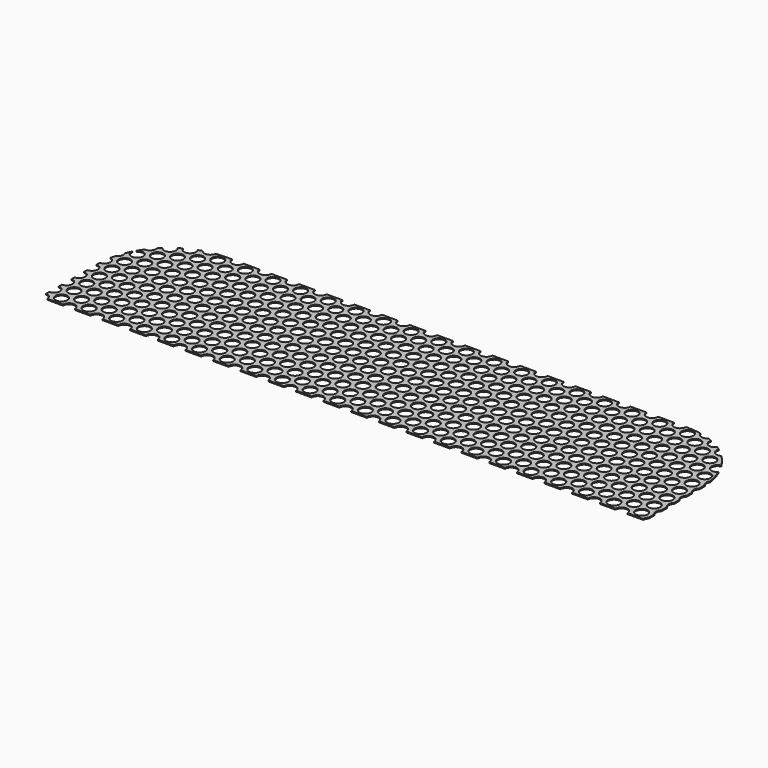
from build123d import *

# Parameters (mm, degrees)
F0_R     = 9.525
F1_DEPTH = 1.651


with BuildPart() as f1:
    # F0 (on Top) → F1 (new body)
    with BuildSketch(Plane.XY):
        with BuildLine():
            ThreePointArc((0, 9.525), (6.735192, 6.735192), (9.525, 0))
            Line((9.525, 0), (34.925, 0))
            ThreePointArc((34.925, 0), (44.45, 9.525), (53.975, 0))
            Line((53.975, 0), (79.375, 0))
            ThreePointArc((79.375, 0), (88.9, 9.525), (98.425, 0))
            Line((98.425, 0), (123.825, 0))
            ThreePointArc((123.825, 0), (133.35, 9.525), (142.875, 0))
            Line((142.875, 0), (168.275, 0))
            ThreePointArc((168.275, 0), (177.8, 9.525), (187.325, 0))
            Line((187.325, 0), (212.725, 0))
            ThreePointArc((212.725, 0), (222.25, 9.525), (231.775, 0))
            Line((231.775, 0), (257.175, 0))
            ThreePointArc((257.175, 0), (266.7, 9.525), (276.225, 0))
            Line((276.225, 0), (301.625, 0))
            ThreePointArc((301.625, 0), (311.15, 9.525), (320.675, 0))
            Line((320.675, 0), (346.075, 0))
            ThreePointArc((346.075, 0), (355.6, 9.525), (365.125, 0))
            Line((365.125, 0), (390.525, 0))
            ThreePointArc((390.525, 0), (400.05, 9.525), (409.575, 0))
            Line((409.575, 0), (434.975, 0))
            ThreePointArc((434.975, 0), (444.5, 9.525), (454.025, 0))
            Line((454.025, 0), (479.425, 0))
            ThreePointArc((479.425, 0), (488.95, 9.525), (498.475, 0))
            Line((498.475, 0), (523.875, 0))
            ThreePointArc((523.875, 0), (533.4, 9.525), (542.925, 0))
            Line((542.925, 0), (568.325, 0))
            ThreePointArc((568.325, 0), (577.85, 9.525), (587.375, 0))
            Line((587.375, 0), (612.775, 0))
            ThreePointArc((612.775, 0), (622.3, 9.525), (631.825, 0))
            Line((631.825, 0), (657.225, 0))
            ThreePointArc((657.225, 0), (666.75, 9.525), (676.275, 0))
            Line((676.275, 0), (701.675, 0))
            ThreePointArc((701.675, 0), (711.2, 9.525), (720.725, 0))
            Line((720.725, 0), (746.125, 0))
            ThreePointArc((746.125, 0), (755.65, 9.525), (765.175, 0))
            Line((765.175, 0), (790.575, 0))
            ThreePointArc((790.575, 0), (800.1, 9.525), (809.625, 0))
            Line((809.625, 0), (835.025, 0))
            ThreePointArc((835.025, 0), (844.55, 9.525), (854.075, 0))
            Line((854.075, 0), (879.475, 0))
            ThreePointArc((879.475, 0), (889, 9.525), (898.525, 0))
            Line((898.525, 0), (923.925, 0))
            ThreePointArc((923.925, 0), (933.45, 9.525), (942.975, 0))
            Line((942.975, 0), (968.375, 0))
            ThreePointArc((968.375, 0), (969.204904, 3.888565), (971.55, 7.099516))
            Line((971.55, 7.099516), (971.55, 18.300484))
            ThreePointArc((971.55, 18.300484), (968.375, 25.4), (971.55, 32.499516))
            Line((971.55, 32.499516), (971.55, 43.700484))
            ThreePointArc((971.55, 43.700484), (968.375, 50.8), (971.55, 57.899516))
            Line((971.55, 57.899516), (971.55, 69.100484))
            ThreePointArc((971.55, 69.100484), (968.375, 76.2), (971.55, 83.299516))
            Line((971.55, 83.299516), (971.55, 94.500484))
            ThreePointArc((971.55, 94.500484), (968.375, 101.6), (971.55, 108.699516))
            Line((971.55, 108.699516), (971.55, 114.3))
            ThreePointArc((971.55, 114.3), (971.514043, 117.166791), (971.406194, 120.031778))
            ThreePointArc((971.406194, 120.031778), (968.427336, 126.002877), (970.097607, 132.463359))
            ThreePointArc((970.097607, 132.463359), (967.13902, 145.746674), (962.622667, 158.584208))
            ThreePointArc((962.622667, 158.584208), (947.210888, 160.731426), (954.38859, 174.537731))
            ThreePointArc((954.38859, 174.537731), (946.893861, 185.211693), (938.231935, 194.962359))
            ThreePointArc((938.231935, 194.962359), (927.251212, 195.968081), (924.577918, 206.665802))
            ThreePointArc((924.577918, 206.665802), (921.837741, 208.602247), (919.041905, 210.457425))
            ThreePointArc((919.041905, 210.457425), (906.756296, 207.488323), (902.339283, 219.330693))
            ThreePointArc((902.339283, 219.330693), (899.079587, 220.670934), (895.780119, 221.910036))
            ThreePointArc((895.780119, 221.910036), (886.450692, 219.422492), (879.740834, 226.365393))
            ThreePointArc((879.740834, 226.365393), (868.550786, 228.039976), (857.25, 228.6))
            Line((857.25, 228.6), (854.075, 228.6))
            ThreePointArc((854.075, 228.6), (844.55, 219.075), (835.025, 228.6))
            Line((835.025, 228.6), (809.625, 228.6))
            ThreePointArc((809.625, 228.6), (800.1, 219.075), (790.575, 228.6))
            Line((790.575, 228.6), (765.175, 228.6))
            ThreePointArc((765.175, 228.6), (755.65, 219.075), (746.125, 228.6))
            Line((746.125, 228.6), (720.725, 228.6))
            ThreePointArc((720.725, 228.6), (711.2, 219.075), (701.675, 228.6))
            Line((701.675, 228.6), (676.275, 228.6))
            ThreePointArc((676.275, 228.6), (666.75, 219.075), (657.225, 228.6))
            Line((657.225, 228.6), (631.825, 228.6))
            ThreePointArc((631.825, 228.6), (622.3, 219.075), (612.775, 228.6))
            Line((612.775, 228.6), (587.375, 228.6))
            ThreePointArc((587.375, 228.6), (577.85, 219.075), (568.325, 228.6))
            Line((568.325, 228.6), (542.925, 228.6))
            ThreePointArc((542.925, 228.6), (533.4, 219.075), (523.875, 228.6))
            Line((523.875, 228.6), (498.475, 228.6))
            ThreePointArc((498.475, 228.6), (488.95, 219.075), (479.425, 228.6))
            Line((479.425, 228.6), (454.025, 228.6))
            ThreePointArc((454.025, 228.6), (444.5, 219.075), (434.975, 228.6))
            Line((434.975, 228.6), (409.575, 228.6))
            ThreePointArc((409.575, 228.6), (400.05, 219.075), (390.525, 228.6))
            Line((390.525, 228.6), (365.125, 228.6))
            ThreePointArc((365.125, 228.6), (355.6, 219.075), (346.075, 228.6))
            Line((346.075, 228.6), (320.675, 228.6))
            ThreePointArc((320.675, 228.6), (311.15, 219.075), (301.625, 228.6))
            Line((301.625, 228.6), (276.225, 228.6))
            ThreePointArc((276.225, 228.6), (266.7, 219.075), (257.175, 228.6))
            Line((257.175, 228.6), (231.775, 228.6))
            ThreePointArc((231.775, 228.6), (222.25, 219.075), (212.725, 228.6))
            Line((212.725, 228.6), (187.325, 228.6))
            ThreePointArc((187.325, 228.6), (177.8, 219.075), (168.275, 228.6))
            Line((168.275, 228.6), (142.875, 228.6))
            ThreePointArc((142.875, 228.6), (133.35, 219.075), (123.825, 228.6))
            Line((123.825, 228.6), (114.3, 228.6))
            ThreePointArc((114.3, 228.6), (106.310092, 228.320399), (98.359273, 227.482964))
            ThreePointArc((98.359273, 227.482964), (90.966263, 219.301818), (80.804109, 223.581816))
            ThreePointArc((80.804109, 223.581816), (77.603874, 222.549177), (74.435401, 221.422844))
            ThreePointArc((74.435401, 221.422844), (70.717733, 207.275504), (57.46564, 213.468269))
            ThreePointArc((57.46564, 213.468269), (54.396955, 211.64534), (51.386684, 209.727484))
            ThreePointArc((51.386684, 209.727484), (50.33475, 195.710318), (36.466668, 198.004614))
            ThreePointArc((36.466668, 198.004614), (33.901788, 195.544184), (31.414647, 193.005198))
            ThreePointArc((31.414647, 193.005198), (29.563006, 184.427168), (21.482601, 181.003976))
            ThreePointArc((21.482601, 181.003976), (18.434116, 176.543251), (15.599834, 171.94345))
            ThreePointArc((15.599834, 171.94345), (30.564877, 160.498688), (12.902809, 167.055092))
            ThreePointArc((12.902809, 167.055092), (10.48265, 162.116814), (8.302823, 157.067843))
            ThreePointArc((8.302823, 157.067843), (9.036208, 149.387931), (3.841552, 143.684032))
            ThreePointArc((3.841552, 143.684032), (2.926213, 139.997655), (2.133864, 136.282901))
            ThreePointArc((2.133864, 136.282901), (9.466743, 125.94814), (0.044109, 117.475102))
            ThreePointArc((0.044109, 117.475102), (0.011028, 115.887704), (0, 114.3))
            Line((0, 114.3), (0, 111.125))
            ThreePointArc((0, 111.125), (9.525, 101.6), (0, 92.075))
            Line((0, 92.075), (0, 85.725))
            ThreePointArc((0, 85.725), (9.525, 76.2), (0, 66.675))
            Line((0, 66.675), (0, 60.325))
            ThreePointArc((0, 60.325), (9.525, 50.8), (0, 41.275))
            Line((0, 41.275), (0, 34.925))
            ThreePointArc((0, 34.925), (9.525, 25.4), (0, 15.875))
            Line((0, 15.875), (0, 9.525))
        make_face()
        with Locations((22.225, 12.7)):
            Circle(F0_R, mode=Mode.SUBTRACT)
        with Locations((66.675, 12.7)):
            Circle(F0_R, mode=Mode.SUBTRACT)
        with Locations((111.125, 12.7)):
            Circle(F0_R, mode=Mode.SUBTRACT)
        with Locations((44.45, 25.4)):
            Circle(F0_R, mode=Mode.SUBTRACT)
        with Locations((88.9, 25.4)):
            Circle(F0_R, mode=Mode.SUBTRACT)
        with Locations((155.575, 12.7)):
            Circle(F0_R, mode=Mode.SUBTRACT)
        with Locations((200.025, 12.7)):
            Circle(F0_R, mode=Mode.SUBTRACT)
        with Locations((133.35, 25.4)):
            Circle(F0_R, mode=Mode.SUBTRACT)
        with Locations((177.8, 25.4)):
            Circle(F0_R, mode=Mode.SUBTRACT)
        with Locations((222.25, 25.4)):
            Circle(F0_R, mode=Mode.SUBTRACT)
        with Locations((22.225, 38.1)):
            Circle(F0_R, mode=Mode.SUBTRACT)
        with Locations((66.675, 38.1)):
            Circle(F0_R, mode=Mode.SUBTRACT)
        with Locations((111.125, 38.1)):
            Circle(F0_R, mode=Mode.SUBTRACT)
        with Locations((44.45, 50.8)):
            Circle(F0_R, mode=Mode.SUBTRACT)
        with Locations((88.9, 50.8)):
            Circle(F0_R, mode=Mode.SUBTRACT)
        with Locations((155.575, 38.1)):
            Circle(F0_R, mode=Mode.SUBTRACT)
        with Locations((200.025, 38.1)):
            Circle(F0_R, mode=Mode.SUBTRACT)
        with Locations((133.35, 50.8)):
            Circle(F0_R, mode=Mode.SUBTRACT)
        with Locations((177.8, 50.8)):
            Circle(F0_R, mode=Mode.SUBTRACT)
        with Locations((222.25, 50.8)):
            Circle(F0_R, mode=Mode.SUBTRACT)
        with Locations((244.475, 12.7)):
            Circle(F0_R, mode=Mode.SUBTRACT)
        with Locations((288.925, 12.7)):
            Circle(F0_R, mode=Mode.SUBTRACT)
        with Locations((333.375, 12.7)):
            Circle(F0_R, mode=Mode.SUBTRACT)
        with Locations((266.7, 25.4)):
            Circle(F0_R, mode=Mode.SUBTRACT)
        with Locations((311.15, 25.4)):
            Circle(F0_R, mode=Mode.SUBTRACT)
        with Locations((355.6, 25.4)):
            Circle(F0_R, mode=Mode.SUBTRACT)
        with Locations((377.825, 12.7)):
            Circle(F0_R, mode=Mode.SUBTRACT)
        with Locations((422.275, 12.7)):
            Circle(F0_R, mode=Mode.SUBTRACT)
        with Locations((466.725, 12.7)):
            Circle(F0_R, mode=Mode.SUBTRACT)
        with Locations((400.05, 25.4)):
            Circle(F0_R, mode=Mode.SUBTRACT)
        with Locations((444.5, 25.4)):
            Circle(F0_R, mode=Mode.SUBTRACT)
        with Locations((244.475, 38.1)):
            Circle(F0_R, mode=Mode.SUBTRACT)
        with Locations((288.925, 38.1)):
            Circle(F0_R, mode=Mode.SUBTRACT)
        with Locations((333.375, 38.1)):
            Circle(F0_R, mode=Mode.SUBTRACT)
        with Locations((266.7, 50.8)):
            Circle(F0_R, mode=Mode.SUBTRACT)
        with Locations((311.15, 50.8)):
            Circle(F0_R, mode=Mode.SUBTRACT)
        with Locations((355.6, 50.8)):
            Circle(F0_R, mode=Mode.SUBTRACT)
        with Locations((377.825, 38.1)):
            Circle(F0_R, mode=Mode.SUBTRACT)
        with Locations((422.275, 38.1)):
            Circle(F0_R, mode=Mode.SUBTRACT)
        with Locations((466.725, 38.1)):
            Circle(F0_R, mode=Mode.SUBTRACT)
        with Locations((400.05, 50.8)):
            Circle(F0_R, mode=Mode.SUBTRACT)
        with Locations((444.5, 50.8)):
            Circle(F0_R, mode=Mode.SUBTRACT)
        with Locations((22.225, 63.5)):
            Circle(F0_R, mode=Mode.SUBTRACT)
        with Locations((66.675, 63.5)):
            Circle(F0_R, mode=Mode.SUBTRACT)
        with Locations((111.125, 63.5)):
            Circle(F0_R, mode=Mode.SUBTRACT)
        with Locations((44.45, 76.2)):
            Circle(F0_R, mode=Mode.SUBTRACT)
        with Locations((88.9, 76.2)):
            Circle(F0_R, mode=Mode.SUBTRACT)
        with Locations((155.575, 63.5)):
            Circle(F0_R, mode=Mode.SUBTRACT)
        with Locations((200.025, 63.5)):
            Circle(F0_R, mode=Mode.SUBTRACT)
        with Locations((133.35, 76.2)):
            Circle(F0_R, mode=Mode.SUBTRACT)
        with Locations((177.8, 76.2)):
            Circle(F0_R, mode=Mode.SUBTRACT)
        with Locations((222.25, 76.2)):
            Circle(F0_R, mode=Mode.SUBTRACT)
        with Locations((22.225, 88.9)):
            Circle(F0_R, mode=Mode.SUBTRACT)
        with Locations((66.675, 88.9)):
            Circle(F0_R, mode=Mode.SUBTRACT)
        with Locations((111.125, 88.9)):
            Circle(F0_R, mode=Mode.SUBTRACT)
        with Locations((44.45, 101.6)):
            Circle(F0_R, mode=Mode.SUBTRACT)
        with Locations((22.225, 114.3)):
            Circle(F0_R, mode=Mode.SUBTRACT)
        with Locations((88.9, 101.6)):
            Circle(F0_R, mode=Mode.SUBTRACT)
        with Locations((66.675, 114.3)):
            Circle(F0_R, mode=Mode.SUBTRACT)
        with Locations((111.125, 114.3)):
            Circle(F0_R, mode=Mode.SUBTRACT)
        with Locations((155.575, 88.9)):
            Circle(F0_R, mode=Mode.SUBTRACT)
        with Locations((200.025, 88.9)):
            Circle(F0_R, mode=Mode.SUBTRACT)
        with Locations((133.35, 101.6)):
            Circle(F0_R, mode=Mode.SUBTRACT)
        with Locations((177.8, 101.6)):
            Circle(F0_R, mode=Mode.SUBTRACT)
        with Locations((155.575, 114.3)):
            Circle(F0_R, mode=Mode.SUBTRACT)
        with Locations((222.25, 101.6)):
            Circle(F0_R, mode=Mode.SUBTRACT)
        with Locations((200.025, 114.3)):
            Circle(F0_R, mode=Mode.SUBTRACT)
        with Locations((244.475, 63.5)):
            Circle(F0_R, mode=Mode.SUBTRACT)
        with Locations((288.925, 63.5)):
            Circle(F0_R, mode=Mode.SUBTRACT)
        with Locations((333.375, 63.5)):
            Circle(F0_R, mode=Mode.SUBTRACT)
        with Locations((266.7, 76.2)):
            Circle(F0_R, mode=Mode.SUBTRACT)
        with Locations((311.15, 76.2)):
            Circle(F0_R, mode=Mode.SUBTRACT)
        with Locations((355.6, 76.2)):
            Circle(F0_R, mode=Mode.SUBTRACT)
        with Locations((377.825, 63.5)):
            Circle(F0_R, mode=Mode.SUBTRACT)
        with Locations((422.275, 63.5)):
            Circle(F0_R, mode=Mode.SUBTRACT)
        with Locations((466.725, 63.5)):
            Circle(F0_R, mode=Mode.SUBTRACT)
        with Locations((400.05, 76.2)):
            Circle(F0_R, mode=Mode.SUBTRACT)
        with Locations((444.5, 76.2)):
            Circle(F0_R, mode=Mode.SUBTRACT)
        with Locations((244.475, 88.9)):
            Circle(F0_R, mode=Mode.SUBTRACT)
        with Locations((288.925, 88.9)):
            Circle(F0_R, mode=Mode.SUBTRACT)
        with Locations((333.375, 88.9)):
            Circle(F0_R, mode=Mode.SUBTRACT)
        with Locations((266.7, 101.6)):
            Circle(F0_R, mode=Mode.SUBTRACT)
        with Locations((244.475, 114.3)):
            Circle(F0_R, mode=Mode.SUBTRACT)
        with Locations((288.925, 114.3)):
            Circle(F0_R, mode=Mode.SUBTRACT)
        with Locations((311.15, 101.6)):
            Circle(F0_R, mode=Mode.SUBTRACT)
        with Locations((355.6, 101.6)):
            Circle(F0_R, mode=Mode.SUBTRACT)
        with Locations((333.375, 114.3)):
            Circle(F0_R, mode=Mode.SUBTRACT)
        with Locations((377.825, 88.9)):
            Circle(F0_R, mode=Mode.SUBTRACT)
        with Locations((422.275, 88.9)):
            Circle(F0_R, mode=Mode.SUBTRACT)
        with Locations((466.725, 88.9)):
            Circle(F0_R, mode=Mode.SUBTRACT)
        with Locations((400.05, 101.6)):
            Circle(F0_R, mode=Mode.SUBTRACT)
        with Locations((377.825, 114.3)):
            Circle(F0_R, mode=Mode.SUBTRACT)
        with Locations((422.275, 114.3)):
            Circle(F0_R, mode=Mode.SUBTRACT)
        with Locations((444.5, 101.6)):
            Circle(F0_R, mode=Mode.SUBTRACT)
        with Locations((466.725, 114.3)):
            Circle(F0_R, mode=Mode.SUBTRACT)
        with Locations((511.175, 12.7)):
            Circle(F0_R, mode=Mode.SUBTRACT)
        with Locations((555.625, 12.7)):
            Circle(F0_R, mode=Mode.SUBTRACT)
        with Locations((600.075, 12.7)):
            Circle(F0_R, mode=Mode.SUBTRACT)
        with Locations((488.95, 25.4)):
            Circle(F0_R, mode=Mode.SUBTRACT)
        with Locations((533.4, 25.4)):
            Circle(F0_R, mode=Mode.SUBTRACT)
        with Locations((577.85, 25.4)):
            Circle(F0_R, mode=Mode.SUBTRACT)
        with Locations((644.525, 12.7)):
            Circle(F0_R, mode=Mode.SUBTRACT)
        with Locations((688.975, 12.7)):
            Circle(F0_R, mode=Mode.SUBTRACT)
        with Locations((622.3, 25.4)):
            Circle(F0_R, mode=Mode.SUBTRACT)
        with Locations((666.75, 25.4)):
            Circle(F0_R, mode=Mode.SUBTRACT)
        with Locations((711.2, 25.4)):
            Circle(F0_R, mode=Mode.SUBTRACT)
        with Locations((511.175, 38.1)):
            Circle(F0_R, mode=Mode.SUBTRACT)
        with Locations((555.625, 38.1)):
            Circle(F0_R, mode=Mode.SUBTRACT)
        with Locations((600.075, 38.1)):
            Circle(F0_R, mode=Mode.SUBTRACT)
        with Locations((488.95, 50.8)):
            Circle(F0_R, mode=Mode.SUBTRACT)
        with Locations((533.4, 50.8)):
            Circle(F0_R, mode=Mode.SUBTRACT)
        with Locations((577.85, 50.8)):
            Circle(F0_R, mode=Mode.SUBTRACT)
        with Locations((644.525, 38.1)):
            Circle(F0_R, mode=Mode.SUBTRACT)
        with Locations((688.975, 38.1)):
            Circle(F0_R, mode=Mode.SUBTRACT)
        with Locations((622.3, 50.8)):
            Circle(F0_R, mode=Mode.SUBTRACT)
        with Locations((666.75, 50.8)):
            Circle(F0_R, mode=Mode.SUBTRACT)
        with Locations((711.2, 50.8)):
            Circle(F0_R, mode=Mode.SUBTRACT)
        with Locations((733.425, 12.7)):
            Circle(F0_R, mode=Mode.SUBTRACT)
        with Locations((777.875, 12.7)):
            Circle(F0_R, mode=Mode.SUBTRACT)
        with Locations((822.325, 12.7)):
            Circle(F0_R, mode=Mode.SUBTRACT)
        with Locations((755.65, 25.4)):
            Circle(F0_R, mode=Mode.SUBTRACT)
        with Locations((800.1, 25.4)):
            Circle(F0_R, mode=Mode.SUBTRACT)
        with Locations((844.55, 25.4)):
            Circle(F0_R, mode=Mode.SUBTRACT)
        with Locations((866.775, 12.7)):
            Circle(F0_R, mode=Mode.SUBTRACT)
        with Locations((911.225, 12.7)):
            Circle(F0_R, mode=Mode.SUBTRACT)
        with Locations((955.675, 12.7)):
            Circle(F0_R, mode=Mode.SUBTRACT)
        with Locations((889, 25.4)):
            Circle(F0_R, mode=Mode.SUBTRACT)
        with Locations((933.45, 25.4)):
            Circle(F0_R, mode=Mode.SUBTRACT)
        with Locations((733.425, 38.1)):
            Circle(F0_R, mode=Mode.SUBTRACT)
        with Locations((777.875, 38.1)):
            Circle(F0_R, mode=Mode.SUBTRACT)
        with Locations((822.325, 38.1)):
            Circle(F0_R, mode=Mode.SUBTRACT)
        with Locations((755.65, 50.8)):
            Circle(F0_R, mode=Mode.SUBTRACT)
        with Locations((800.1, 50.8)):
            Circle(F0_R, mode=Mode.SUBTRACT)
        with Locations((844.55, 50.8)):
            Circle(F0_R, mode=Mode.SUBTRACT)
        with Locations((866.775, 38.1)):
            Circle(F0_R, mode=Mode.SUBTRACT)
        with Locations((911.225, 38.1)):
            Circle(F0_R, mode=Mode.SUBTRACT)
        with Locations((955.675, 38.1)):
            Circle(F0_R, mode=Mode.SUBTRACT)
        with Locations((889, 50.8)):
            Circle(F0_R, mode=Mode.SUBTRACT)
        with Locations((933.45, 50.8)):
            Circle(F0_R, mode=Mode.SUBTRACT)
        with Locations((511.175, 63.5)):
            Circle(F0_R, mode=Mode.SUBTRACT)
        with Locations((555.625, 63.5)):
            Circle(F0_R, mode=Mode.SUBTRACT)
        with Locations((600.075, 63.5)):
            Circle(F0_R, mode=Mode.SUBTRACT)
        with Locations((488.95, 76.2)):
            Circle(F0_R, mode=Mode.SUBTRACT)
        with Locations((533.4, 76.2)):
            Circle(F0_R, mode=Mode.SUBTRACT)
        with Locations((577.85, 76.2)):
            Circle(F0_R, mode=Mode.SUBTRACT)
        with Locations((644.525, 63.5)):
            Circle(F0_R, mode=Mode.SUBTRACT)
        with Locations((688.975, 63.5)):
            Circle(F0_R, mode=Mode.SUBTRACT)
        with Locations((622.3, 76.2)):
            Circle(F0_R, mode=Mode.SUBTRACT)
        with Locations((666.75, 76.2)):
            Circle(F0_R, mode=Mode.SUBTRACT)
        with Locations((711.2, 76.2)):
            Circle(F0_R, mode=Mode.SUBTRACT)
        with Locations((511.175, 88.9)):
            Circle(F0_R, mode=Mode.SUBTRACT)
        with Locations((555.625, 88.9)):
            Circle(F0_R, mode=Mode.SUBTRACT)
        with Locations((600.075, 88.9)):
            Circle(F0_R, mode=Mode.SUBTRACT)
        with Locations((488.95, 101.6)):
            Circle(F0_R, mode=Mode.SUBTRACT)
        with Locations((533.4, 101.6)):
            Circle(F0_R, mode=Mode.SUBTRACT)
        with Locations((511.175, 114.3)):
            Circle(F0_R, mode=Mode.SUBTRACT)
        with Locations((577.85, 101.6)):
            Circle(F0_R, mode=Mode.SUBTRACT)
        with Locations((555.625, 114.3)):
            Circle(F0_R, mode=Mode.SUBTRACT)
        with Locations((600.075, 114.3)):
            Circle(F0_R, mode=Mode.SUBTRACT)
        with Locations((644.525, 88.9)):
            Circle(F0_R, mode=Mode.SUBTRACT)
        with Locations((688.975, 88.9)):
            Circle(F0_R, mode=Mode.SUBTRACT)
        with Locations((622.3, 101.6)):
            Circle(F0_R, mode=Mode.SUBTRACT)
        with Locations((666.75, 101.6)):
            Circle(F0_R, mode=Mode.SUBTRACT)
        with Locations((644.525, 114.3)):
            Circle(F0_R, mode=Mode.SUBTRACT)
        with Locations((711.2, 101.6)):
            Circle(F0_R, mode=Mode.SUBTRACT)
        with Locations((688.975, 114.3)):
            Circle(F0_R, mode=Mode.SUBTRACT)
        with Locations((733.425, 63.5)):
            Circle(F0_R, mode=Mode.SUBTRACT)
        with Locations((777.875, 63.5)):
            Circle(F0_R, mode=Mode.SUBTRACT)
        with Locations((822.325, 63.5)):
            Circle(F0_R, mode=Mode.SUBTRACT)
        with Locations((755.65, 76.2)):
            Circle(F0_R, mode=Mode.SUBTRACT)
        with Locations((800.1, 76.2)):
            Circle(F0_R, mode=Mode.SUBTRACT)
        with Locations((844.55, 76.2)):
            Circle(F0_R, mode=Mode.SUBTRACT)
        with Locations((866.775, 63.5)):
            Circle(F0_R, mode=Mode.SUBTRACT)
        with Locations((911.225, 63.5)):
            Circle(F0_R, mode=Mode.SUBTRACT)
        with Locations((955.675, 63.5)):
            Circle(F0_R, mode=Mode.SUBTRACT)
        with Locations((889, 76.2)):
            Circle(F0_R, mode=Mode.SUBTRACT)
        with Locations((933.45, 76.2)):
            Circle(F0_R, mode=Mode.SUBTRACT)
        with Locations((733.425, 88.9)):
            Circle(F0_R, mode=Mode.SUBTRACT)
        with Locations((777.875, 88.9)):
            Circle(F0_R, mode=Mode.SUBTRACT)
        with Locations((822.325, 88.9)):
            Circle(F0_R, mode=Mode.SUBTRACT)
        with Locations((755.65, 101.6)):
            Circle(F0_R, mode=Mode.SUBTRACT)
        with Locations((733.425, 114.3)):
            Circle(F0_R, mode=Mode.SUBTRACT)
        with Locations((777.875, 114.3)):
            Circle(F0_R, mode=Mode.SUBTRACT)
        with Locations((800.1, 101.6)):
            Circle(F0_R, mode=Mode.SUBTRACT)
        with Locations((844.55, 101.6)):
            Circle(F0_R, mode=Mode.SUBTRACT)
        with Locations((822.325, 114.3)):
            Circle(F0_R, mode=Mode.SUBTRACT)
        with Locations((866.775, 88.9)):
            Circle(F0_R, mode=Mode.SUBTRACT)
        with Locations((911.225, 88.9)):
            Circle(F0_R, mode=Mode.SUBTRACT)
        with Locations((955.675, 88.9)):
            Circle(F0_R, mode=Mode.SUBTRACT)
        with Locations((889, 101.6)):
            Circle(F0_R, mode=Mode.SUBTRACT)
        with Locations((866.775, 114.3)):
            Circle(F0_R, mode=Mode.SUBTRACT)
        with Locations((933.45, 101.6)):
            Circle(F0_R, mode=Mode.SUBTRACT)
        with Locations((911.225, 114.3)):
            Circle(F0_R, mode=Mode.SUBTRACT)
        with Locations((955.675, 114.3)):
            Circle(F0_R, mode=Mode.SUBTRACT)
        with Locations((44.45, 127)):
            Circle(F0_R, mode=Mode.SUBTRACT)
        with Locations((88.9, 127)):
            Circle(F0_R, mode=Mode.SUBTRACT)
        with Locations((22.225, 139.7)):
            Circle(F0_R, mode=Mode.SUBTRACT)
        with Locations((66.675, 139.7)):
            Circle(F0_R, mode=Mode.SUBTRACT)
        with Locations((111.125, 139.7)):
            Circle(F0_R, mode=Mode.SUBTRACT)
        with Locations((133.35, 127)):
            Circle(F0_R, mode=Mode.SUBTRACT)
        with Locations((177.8, 127)):
            Circle(F0_R, mode=Mode.SUBTRACT)
        with Locations((222.25, 127)):
            Circle(F0_R, mode=Mode.SUBTRACT)
        with Locations((155.575, 139.7)):
            Circle(F0_R, mode=Mode.SUBTRACT)
        with Locations((200.025, 139.7)):
            Circle(F0_R, mode=Mode.SUBTRACT)
        with Locations((44.45, 152.4)):
            Circle(F0_R, mode=Mode.SUBTRACT)
        with Locations((88.9, 152.4)):
            Circle(F0_R, mode=Mode.SUBTRACT)
        with Locations((66.675, 165.1)):
            Circle(F0_R, mode=Mode.SUBTRACT)
        with Locations((111.125, 165.1)):
            Circle(F0_R, mode=Mode.SUBTRACT)
        with Locations((133.35, 152.4)):
            Circle(F0_R, mode=Mode.SUBTRACT)
        with Locations((177.8, 152.4)):
            Circle(F0_R, mode=Mode.SUBTRACT)
        with Locations((222.25, 152.4)):
            Circle(F0_R, mode=Mode.SUBTRACT)
        with Locations((155.575, 165.1)):
            Circle(F0_R, mode=Mode.SUBTRACT)
        with Locations((200.025, 165.1)):
            Circle(F0_R, mode=Mode.SUBTRACT)
        with Locations((266.7, 127)):
            Circle(F0_R, mode=Mode.SUBTRACT)
        with Locations((311.15, 127)):
            Circle(F0_R, mode=Mode.SUBTRACT)
        with Locations((355.6, 127)):
            Circle(F0_R, mode=Mode.SUBTRACT)
        with Locations((244.475, 139.7)):
            Circle(F0_R, mode=Mode.SUBTRACT)
        with Locations((288.925, 139.7)):
            Circle(F0_R, mode=Mode.SUBTRACT)
        with Locations((333.375, 139.7)):
            Circle(F0_R, mode=Mode.SUBTRACT)
        with Locations((400.05, 127)):
            Circle(F0_R, mode=Mode.SUBTRACT)
        with Locations((444.5, 127)):
            Circle(F0_R, mode=Mode.SUBTRACT)
        with Locations((377.825, 139.7)):
            Circle(F0_R, mode=Mode.SUBTRACT)
        with Locations((422.275, 139.7)):
            Circle(F0_R, mode=Mode.SUBTRACT)
        with Locations((466.725, 139.7)):
            Circle(F0_R, mode=Mode.SUBTRACT)
        with Locations((266.7, 152.4)):
            Circle(F0_R, mode=Mode.SUBTRACT)
        with Locations((311.15, 152.4)):
            Circle(F0_R, mode=Mode.SUBTRACT)
        with Locations((355.6, 152.4)):
            Circle(F0_R, mode=Mode.SUBTRACT)
        with Locations((244.475, 165.1)):
            Circle(F0_R, mode=Mode.SUBTRACT)
        with Locations((288.925, 165.1)):
            Circle(F0_R, mode=Mode.SUBTRACT)
        with Locations((333.375, 165.1)):
            Circle(F0_R, mode=Mode.SUBTRACT)
        with Locations((400.05, 152.4)):
            Circle(F0_R, mode=Mode.SUBTRACT)
        with Locations((444.5, 152.4)):
            Circle(F0_R, mode=Mode.SUBTRACT)
        with Locations((377.825, 165.1)):
            Circle(F0_R, mode=Mode.SUBTRACT)
        with Locations((422.275, 165.1)):
            Circle(F0_R, mode=Mode.SUBTRACT)
        with Locations((466.725, 165.1)):
            Circle(F0_R, mode=Mode.SUBTRACT)
        with Locations((44.45, 177.8)):
            Circle(F0_R, mode=Mode.SUBTRACT)
        with Locations((88.9, 177.8)):
            Circle(F0_R, mode=Mode.SUBTRACT)
        with Locations((66.675, 190.5)):
            Circle(F0_R, mode=Mode.SUBTRACT)
        with Locations((111.125, 190.5)):
            Circle(F0_R, mode=Mode.SUBTRACT)
        with Locations((133.35, 177.8)):
            Circle(F0_R, mode=Mode.SUBTRACT)
        with Locations((177.8, 177.8)):
            Circle(F0_R, mode=Mode.SUBTRACT)
        with Locations((222.25, 177.8)):
            Circle(F0_R, mode=Mode.SUBTRACT)
        with Locations((155.575, 190.5)):
            Circle(F0_R, mode=Mode.SUBTRACT)
        with Locations((200.025, 190.5)):
            Circle(F0_R, mode=Mode.SUBTRACT)
        with Locations((88.9, 203.2)):
            Circle(F0_R, mode=Mode.SUBTRACT)
        with Locations((111.125, 215.9)):
            Circle(F0_R, mode=Mode.SUBTRACT)
        with Locations((133.35, 203.2)):
            Circle(F0_R, mode=Mode.SUBTRACT)
        with Locations((177.8, 203.2)):
            Circle(F0_R, mode=Mode.SUBTRACT)
        with Locations((222.25, 203.2)):
            Circle(F0_R, mode=Mode.SUBTRACT)
        with Locations((155.575, 215.9)):
            Circle(F0_R, mode=Mode.SUBTRACT)
        with Locations((200.025, 215.9)):
            Circle(F0_R, mode=Mode.SUBTRACT)
        with Locations((266.7, 177.8)):
            Circle(F0_R, mode=Mode.SUBTRACT)
        with Locations((311.15, 177.8)):
            Circle(F0_R, mode=Mode.SUBTRACT)
        with Locations((355.6, 177.8)):
            Circle(F0_R, mode=Mode.SUBTRACT)
        with Locations((244.475, 190.5)):
            Circle(F0_R, mode=Mode.SUBTRACT)
        with Locations((288.925, 190.5)):
            Circle(F0_R, mode=Mode.SUBTRACT)
        with Locations((333.375, 190.5)):
            Circle(F0_R, mode=Mode.SUBTRACT)
        with Locations((400.05, 177.8)):
            Circle(F0_R, mode=Mode.SUBTRACT)
        with Locations((444.5, 177.8)):
            Circle(F0_R, mode=Mode.SUBTRACT)
        with Locations((377.825, 190.5)):
            Circle(F0_R, mode=Mode.SUBTRACT)
        with Locations((422.275, 190.5)):
            Circle(F0_R, mode=Mode.SUBTRACT)
        with Locations((466.725, 190.5)):
            Circle(F0_R, mode=Mode.SUBTRACT)
        with Locations((266.7, 203.2)):
            Circle(F0_R, mode=Mode.SUBTRACT)
        with Locations((311.15, 203.2)):
            Circle(F0_R, mode=Mode.SUBTRACT)
        with Locations((355.6, 203.2)):
            Circle(F0_R, mode=Mode.SUBTRACT)
        with Locations((244.475, 215.9)):
            Circle(F0_R, mode=Mode.SUBTRACT)
        with Locations((288.925, 215.9)):
            Circle(F0_R, mode=Mode.SUBTRACT)
        with Locations((333.375, 215.9)):
            Circle(F0_R, mode=Mode.SUBTRACT)
        with Locations((400.05, 203.2)):
            Circle(F0_R, mode=Mode.SUBTRACT)
        with Locations((444.5, 203.2)):
            Circle(F0_R, mode=Mode.SUBTRACT)
        with Locations((377.825, 215.9)):
            Circle(F0_R, mode=Mode.SUBTRACT)
        with Locations((422.275, 215.9)):
            Circle(F0_R, mode=Mode.SUBTRACT)
        with Locations((466.725, 215.9)):
            Circle(F0_R, mode=Mode.SUBTRACT)
        with Locations((488.95, 127)):
            Circle(F0_R, mode=Mode.SUBTRACT)
        with Locations((533.4, 127)):
            Circle(F0_R, mode=Mode.SUBTRACT)
        with Locations((577.85, 127)):
            Circle(F0_R, mode=Mode.SUBTRACT)
        with Locations((511.175, 139.7)):
            Circle(F0_R, mode=Mode.SUBTRACT)
        with Locations((555.625, 139.7)):
            Circle(F0_R, mode=Mode.SUBTRACT)
        with Locations((600.075, 139.7)):
            Circle(F0_R, mode=Mode.SUBTRACT)
        with Locations((622.3, 127)):
            Circle(F0_R, mode=Mode.SUBTRACT)
        with Locations((666.75, 127)):
            Circle(F0_R, mode=Mode.SUBTRACT)
        with Locations((711.2, 127)):
            Circle(F0_R, mode=Mode.SUBTRACT)
        with Locations((644.525, 139.7)):
            Circle(F0_R, mode=Mode.SUBTRACT)
        with Locations((688.975, 139.7)):
            Circle(F0_R, mode=Mode.SUBTRACT)
        with Locations((488.95, 152.4)):
            Circle(F0_R, mode=Mode.SUBTRACT)
        with Locations((533.4, 152.4)):
            Circle(F0_R, mode=Mode.SUBTRACT)
        with Locations((577.85, 152.4)):
            Circle(F0_R, mode=Mode.SUBTRACT)
        with Locations((511.175, 165.1)):
            Circle(F0_R, mode=Mode.SUBTRACT)
        with Locations((555.625, 165.1)):
            Circle(F0_R, mode=Mode.SUBTRACT)
        with Locations((600.075, 165.1)):
            Circle(F0_R, mode=Mode.SUBTRACT)
        with Locations((622.3, 152.4)):
            Circle(F0_R, mode=Mode.SUBTRACT)
        with Locations((666.75, 152.4)):
            Circle(F0_R, mode=Mode.SUBTRACT)
        with Locations((711.2, 152.4)):
            Circle(F0_R, mode=Mode.SUBTRACT)
        with Locations((644.525, 165.1)):
            Circle(F0_R, mode=Mode.SUBTRACT)
        with Locations((688.975, 165.1)):
            Circle(F0_R, mode=Mode.SUBTRACT)
        with Locations((755.65, 127)):
            Circle(F0_R, mode=Mode.SUBTRACT)
        with Locations((800.1, 127)):
            Circle(F0_R, mode=Mode.SUBTRACT)
        with Locations((844.55, 127)):
            Circle(F0_R, mode=Mode.SUBTRACT)
        with Locations((733.425, 139.7)):
            Circle(F0_R, mode=Mode.SUBTRACT)
        with Locations((777.875, 139.7)):
            Circle(F0_R, mode=Mode.SUBTRACT)
        with Locations((822.325, 139.7)):
            Circle(F0_R, mode=Mode.SUBTRACT)
        with Locations((889, 127)):
            Circle(F0_R, mode=Mode.SUBTRACT)
        with Locations((933.45, 127)):
            Circle(F0_R, mode=Mode.SUBTRACT)
        with Locations((866.775, 139.7)):
            Circle(F0_R, mode=Mode.SUBTRACT)
        with Locations((911.225, 139.7)):
            Circle(F0_R, mode=Mode.SUBTRACT)
        with Locations((955.675, 139.7)):
            Circle(F0_R, mode=Mode.SUBTRACT)
        with Locations((755.65, 152.4)):
            Circle(F0_R, mode=Mode.SUBTRACT)
        with Locations((800.1, 152.4)):
            Circle(F0_R, mode=Mode.SUBTRACT)
        with Locations((844.55, 152.4)):
            Circle(F0_R, mode=Mode.SUBTRACT)
        with Locations((733.425, 165.1)):
            Circle(F0_R, mode=Mode.SUBTRACT)
        with Locations((777.875, 165.1)):
            Circle(F0_R, mode=Mode.SUBTRACT)
        with Locations((822.325, 165.1)):
            Circle(F0_R, mode=Mode.SUBTRACT)
        with Locations((889, 152.4)):
            Circle(F0_R, mode=Mode.SUBTRACT)
        with Locations((933.45, 152.4)):
            Circle(F0_R, mode=Mode.SUBTRACT)
        with Locations((866.775, 165.1)):
            Circle(F0_R, mode=Mode.SUBTRACT)
        with Locations((911.225, 165.1)):
            Circle(F0_R, mode=Mode.SUBTRACT)
        with Locations((488.95, 177.8)):
            Circle(F0_R, mode=Mode.SUBTRACT)
        with Locations((533.4, 177.8)):
            Circle(F0_R, mode=Mode.SUBTRACT)
        with Locations((577.85, 177.8)):
            Circle(F0_R, mode=Mode.SUBTRACT)
        with Locations((511.175, 190.5)):
            Circle(F0_R, mode=Mode.SUBTRACT)
        with Locations((555.625, 190.5)):
            Circle(F0_R, mode=Mode.SUBTRACT)
        with Locations((600.075, 190.5)):
            Circle(F0_R, mode=Mode.SUBTRACT)
        with Locations((622.3, 177.8)):
            Circle(F0_R, mode=Mode.SUBTRACT)
        with Locations((666.75, 177.8)):
            Circle(F0_R, mode=Mode.SUBTRACT)
        with Locations((711.2, 177.8)):
            Circle(F0_R, mode=Mode.SUBTRACT)
        with Locations((644.525, 190.5)):
            Circle(F0_R, mode=Mode.SUBTRACT)
        with Locations((688.975, 190.5)):
            Circle(F0_R, mode=Mode.SUBTRACT)
        with Locations((488.95, 203.2)):
            Circle(F0_R, mode=Mode.SUBTRACT)
        with Locations((533.4, 203.2)):
            Circle(F0_R, mode=Mode.SUBTRACT)
        with Locations((577.85, 203.2)):
            Circle(F0_R, mode=Mode.SUBTRACT)
        with Locations((511.175, 215.9)):
            Circle(F0_R, mode=Mode.SUBTRACT)
        with Locations((555.625, 215.9)):
            Circle(F0_R, mode=Mode.SUBTRACT)
        with Locations((600.075, 215.9)):
            Circle(F0_R, mode=Mode.SUBTRACT)
        with Locations((622.3, 203.2)):
            Circle(F0_R, mode=Mode.SUBTRACT)
        with Locations((666.75, 203.2)):
            Circle(F0_R, mode=Mode.SUBTRACT)
        with Locations((711.2, 203.2)):
            Circle(F0_R, mode=Mode.SUBTRACT)
        with Locations((644.525, 215.9)):
            Circle(F0_R, mode=Mode.SUBTRACT)
        with Locations((688.975, 215.9)):
            Circle(F0_R, mode=Mode.SUBTRACT)
        with Locations((755.65, 177.8)):
            Circle(F0_R, mode=Mode.SUBTRACT)
        with Locations((800.1, 177.8)):
            Circle(F0_R, mode=Mode.SUBTRACT)
        with Locations((844.55, 177.8)):
            Circle(F0_R, mode=Mode.SUBTRACT)
        with Locations((733.425, 190.5)):
            Circle(F0_R, mode=Mode.SUBTRACT)
        with Locations((777.875, 190.5)):
            Circle(F0_R, mode=Mode.SUBTRACT)
        with Locations((822.325, 190.5)):
            Circle(F0_R, mode=Mode.SUBTRACT)
        with Locations((889, 177.8)):
            Circle(F0_R, mode=Mode.SUBTRACT)
        with Locations((933.45, 177.8)):
            Circle(F0_R, mode=Mode.SUBTRACT)
        with Locations((866.775, 190.5)):
            Circle(F0_R, mode=Mode.SUBTRACT)
        with Locations((911.225, 190.5)):
            Circle(F0_R, mode=Mode.SUBTRACT)
        with Locations((755.65, 203.2)):
            Circle(F0_R, mode=Mode.SUBTRACT)
        with Locations((800.1, 203.2)):
            Circle(F0_R, mode=Mode.SUBTRACT)
        with Locations((844.55, 203.2)):
            Circle(F0_R, mode=Mode.SUBTRACT)
        with Locations((733.425, 215.9)):
            Circle(F0_R, mode=Mode.SUBTRACT)
        with Locations((777.875, 215.9)):
            Circle(F0_R, mode=Mode.SUBTRACT)
        with Locations((822.325, 215.9)):
            Circle(F0_R, mode=Mode.SUBTRACT)
        with Locations((889, 203.2)):
            Circle(F0_R, mode=Mode.SUBTRACT)
        with Locations((866.775, 215.9)):
            Circle(F0_R, mode=Mode.SUBTRACT)
    extrude(amount=F1_DEPTH)


solid = f1.part
